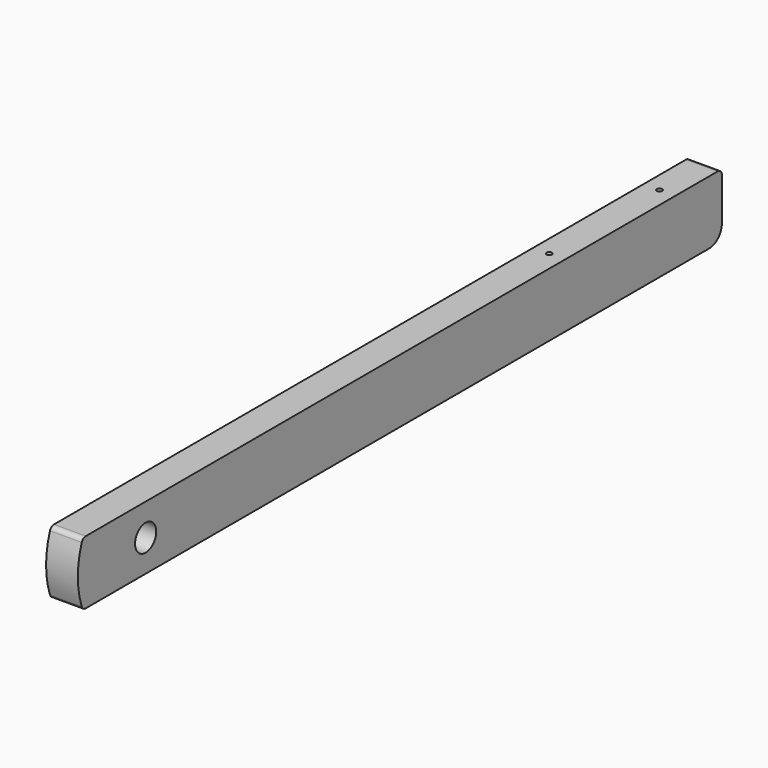
from build123d import *

# Parameters (mm, degrees)
F0_R     = 7.9375
F1_DEPTH = 9.525
F2_R     = 1.5875
F3_DEPTH = 25.4
F4_R     = 9.525
F5_R     = 3.175


with BuildPart() as f1:
    # F0 (on Right) → F1 (new body, symmetric)
    with BuildSketch(Plane.YZ):
        with BuildLine():
            Line((431.8, -19.05), (431.8, 19.05))
            Line((431.8, 19.05), (-47.09286, 19.05))
            ThreePointArc((-47.09286, 19.05), (-50.8, 0), (-47.09286, -19.05))
            Line((-47.09286, -19.05), (431.8, -19.05))
        make_face()
        Circle(F0_R, mode=Mode.SUBTRACT)
    extrude(amount=F1_DEPTH, both=True)

    # F2 (on face) → F3 (cut)
    with BuildSketch(Plane.XY.offset(19.05)):
        with Locations((0, 396.875)):
            Circle(F2_R)
        with Locations((0, 314.325)):
            Circle(F2_R)
    extrude(amount=-F3_DEPTH, mode=Mode.SUBTRACT)

    # F4
    f4_edges = [f1.edges().sort_by_distance(p)[0] for p in [
        (0, 431.8, -19.05),
    ]]
    fillet(f4_edges, radius=F4_R)

    # F5
    f5_edges = [f1.edges().sort_by_distance(p)[0] for p in [
        (0, 431.8, 19.05),
        (0, -47.09286, -19.05),
        (0, -47.09286, 19.05),
    ]]
    fillet(f5_edges, radius=F5_R)


solid = f1.part
